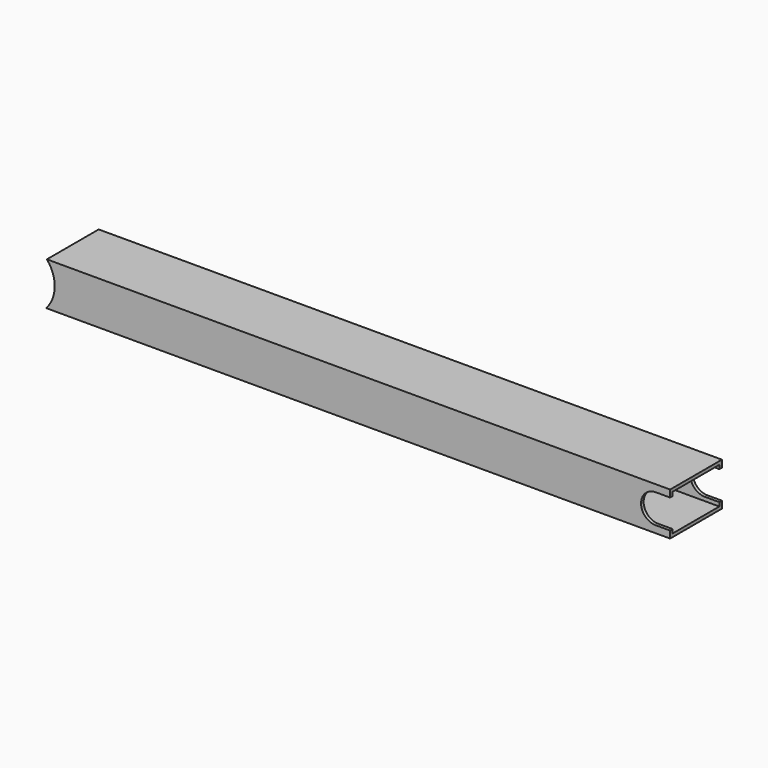
from build123d import *

# Parameters (mm, degrees)
F0_W     = 60
F0_H     = 40
F0_W_2   = 54
F0_H_2   = 34
F1_DEPTH = 600
F2_R     = 30
F3_DEPTH = 60
F4_DEPTH = 25


with BuildPart() as f1:
    # F0 (on Right) → F1 (new body)
    with BuildSketch(Plane.YZ):
        with Locations((-30, -0.412365)):
            Rectangle(F0_W, F0_H)
        with Locations((-30, -0.412365)):
            Rectangle(F0_W_2, F0_H_2, mode=Mode.SUBTRACT)
    extrude(amount=F1_DEPTH)

    # F2 (on face) → F3 (cut)
    with BuildSketch(Plane(origin=(0, 0, 0), x_dir=(-1, 0, 0), z_dir=(0, 1, 0))):
        with BuildLine():
            ThreePointArc((-586.55, -13.862365), (-577.039414, -9.922951), (-573.1, -0.412365))
            ThreePointArc((-573.1, -0.412365), (-577.039414, 9.098221), (-586.55, 13.037635))
            ThreePointArc((-586.55, 13.037635), (-600, -0.412365), (-586.55, -13.862365))
        make_face()
        Circle(F2_R)
        with BuildLine():
            ThreePointArc((-600, -0.412365), (-596.060586, 9.098221), (-586.55, 13.037635))
            Line((-586.55, 13.037635), (-600, 13.037635))
            Line((-600, 13.037635), (-600, -0.412365))
        make_face()
        with BuildLine():
            Line((-600, -13.862365), (-586.55, -13.862365))
            ThreePointArc((-586.55, -13.862365), (-596.060586, -9.922951), (-600, -0.412365))
            Line((-600, -0.412365), (-600, -13.862365))
        make_face()
    extrude(amount=-F3_DEPTH, mode=Mode.SUBTRACT)

    # F2 (on face) → F4 (cut)
    with BuildSketch(Plane(origin=(0, 0, 0), x_dir=(-1, 0, 0), z_dir=(0, 1, 0))):
        with BuildLine():
            ThreePointArc((-586.55, -13.862365), (-577.039414, -9.922951), (-573.1, -0.412365))
            ThreePointArc((-573.1, -0.412365), (-577.039414, 9.098221), (-586.55, 13.037635))
            ThreePointArc((-586.55, 13.037635), (-600, -0.412365), (-586.55, -13.862365))
        make_face()
        Circle(F2_R)
    extrude(amount=-F4_DEPTH, mode=Mode.SUBTRACT)


solid = f1.part
